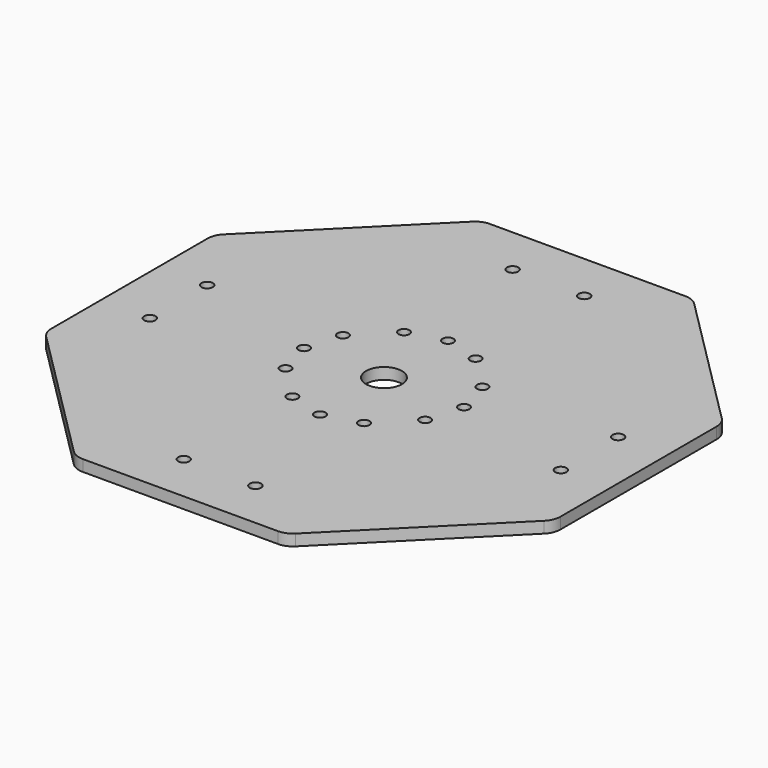
from build123d import *

# Parameters (mm, degrees)
F0_R     = 1.5
F0_R_2   = 1.45
F0_R_3   = 4.75
F1_DEPTH = 3
F2_R     = 5


with BuildPart() as f1:
    # F0 (on Top) → F1 (new body)
    with BuildSketch(Plane.XY):
        Polygon((67.5, 27.96), (27.96, 67.5), (-27.96, 67.5), (-67.5, 27.96), (-67.5, -27.96), (-27.96, -67.5), (27.96, -67.5), (67.5, -27.96), align=None)
        with Locations((-9.5, -54.5)):
            Circle(F0_R, mode=Mode.SUBTRACT)
        with Locations((-54.5, -9.5)):
            Circle(F0_R, mode=Mode.SUBTRACT)
        with Locations((-9.5, -18.5)):
            Circle(F0_R_2, mode=Mode.SUBTRACT)
        with Locations((-18.5, -9.5)):
            Circle(F0_R_2, mode=Mode.SUBTRACT)
        with Locations((9.5, -54.5)):
            Circle(F0_R, mode=Mode.SUBTRACT)
        with Locations((0, -21.215)):
            Circle(F0_R_2, mode=Mode.SUBTRACT)
        with Locations((9.5, -18.5)):
            Circle(F0_R_2, mode=Mode.SUBTRACT)
        with Locations((18.5, -9.5)):
            Circle(F0_R_2, mode=Mode.SUBTRACT)
        with Locations((54.5, -9.5)):
            Circle(F0_R, mode=Mode.SUBTRACT)
        with Locations((-54.5, 9.5)):
            Circle(F0_R, mode=Mode.SUBTRACT)
        with Locations((-21.215, 0)):
            Circle(F0_R_2, mode=Mode.SUBTRACT)
        with Locations((-18.5, 9.5)):
            Circle(F0_R_2, mode=Mode.SUBTRACT)
        with Locations((-9.5, 18.5)):
            Circle(F0_R_2, mode=Mode.SUBTRACT)
        with Locations((-9.5, 54.5)):
            Circle(F0_R, mode=Mode.SUBTRACT)
        Circle(F0_R_3, mode=Mode.SUBTRACT)
        with Locations((21.215, 0)):
            Circle(F0_R_2, mode=Mode.SUBTRACT)
        with Locations((18.5, 9.5)):
            Circle(F0_R_2, mode=Mode.SUBTRACT)
        with Locations((0, 21.215)):
            Circle(F0_R_2, mode=Mode.SUBTRACT)
        with Locations((9.5, 18.5)):
            Circle(F0_R_2, mode=Mode.SUBTRACT)
        with Locations((54.5, 9.5)):
            Circle(F0_R, mode=Mode.SUBTRACT)
        with Locations((9.5, 54.5)):
            Circle(F0_R, mode=Mode.SUBTRACT)
    extrude(amount=F1_DEPTH)

    # F2
    f2_edges = [f1.edges().sort_by_distance(p)[0] for p in [
        (-27.96, 67.5, 1.5),
        (-67.5, 27.96, 1.5),
        (-67.5, -27.96, 1.5),
        (-27.96, -67.5, 1.5),
        (27.96, -67.5, 1.5),
        (67.5, -27.96, 1.5),
        (67.5, 27.96, 1.5),
        (27.96, 67.5, 1.5),
    ]]
    fillet(f2_edges, radius=F2_R)


solid = f1.part
